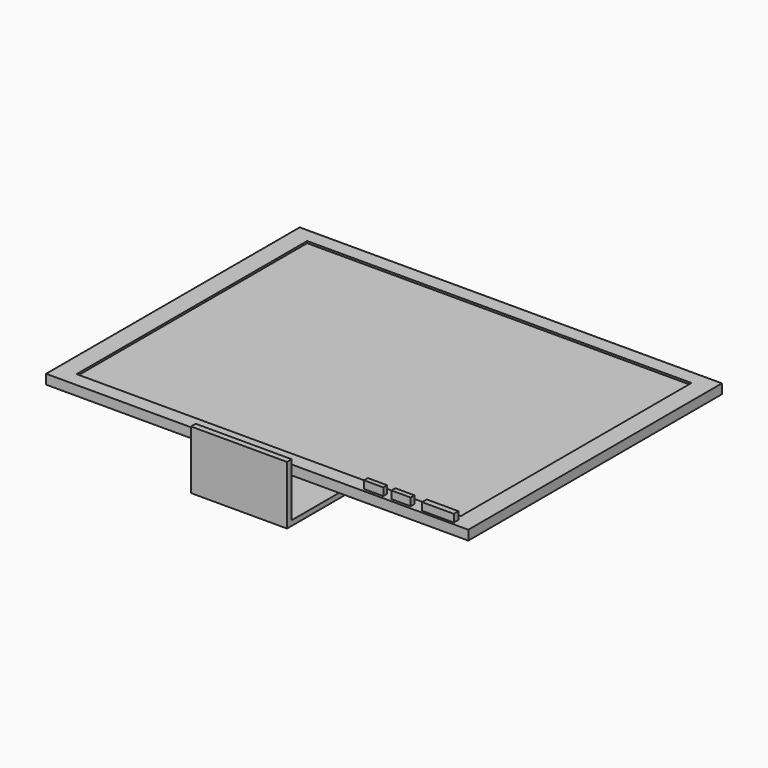
from build123d import *

# Parameters (mm, degrees)
F0_W     = 439.460694
F0_H     = 330
F0_W_2   = 20
F0_H_2   = 5
F0_W_3   = 33
F0_H_3   = 6
F0_W_4   = 400
F0_H_4   = 300
F1_DEPTH = 10
F2_W     = 402
F2_H     = 302
F3_DEPTH = 8
F5_DEPTH = 50
F6_W     = 33
F6_H     = 6
F6_W_2   = 20
F6_H_2   = 5
F7_DEPTH = 8


with BuildPart() as f1:
    # F0 (on Top) → F1 (new body)
    with BuildSketch(Plane.XY):
        Rectangle(F0_W, F0_H)
        with Locations((118.833594, -159.5)):
            Rectangle(F0_W_2, F0_H_2, mode=Mode.SUBTRACT)
        with Locations((147.418872, -159.5)):
            Rectangle(F0_W_2, F0_H_2, mode=Mode.SUBTRACT)
        with Locations((186.151851, -159.5)):
            Rectangle(F0_W_3, F0_H_3, mode=Mode.SUBTRACT)
        Rectangle(F0_W_4, F0_H_4, mode=Mode.SUBTRACT)
    extrude(amount=F1_DEPTH)

    # F2 (on Top) → F3 (join)
    with BuildSketch(Plane.XY):
        with Locations((-0.93753, -0.534642)):
            Rectangle(F2_W, F2_H)
    extrude(amount=F3_DEPTH)

    # F4 (on Right) → F5 (join, symmetric)
    with BuildSketch(Plane.YZ):
        Polygon((-114.302076, -34.522139), (-114.302076, 0), (-120.323472, 0), (-120.323472, -29.334145), (-182.563469, -29.334145), (-182.563469, 26.524637), (-188.668147, 26.524637), (-188.668147, -34.522139), align=None)
    extrude(amount=F5_DEPTH, both=True)


with BuildPart() as f7:
    # F6 (on face) → F7 (new body)
    with BuildSketch(Plane.XY.offset(10)):
        with Locations((186.151851, -159.5)):
            Rectangle(F6_W, F6_H)
        with Locations((147.418872, -159.5)):
            Rectangle(F6_W_2, F6_H_2)
        with Locations((118.833594, -159.5)):
            Rectangle(F6_W_2, F6_H_2)
    extrude(amount=F7_DEPTH)


solid = Compound([f1.part, f7.part])
